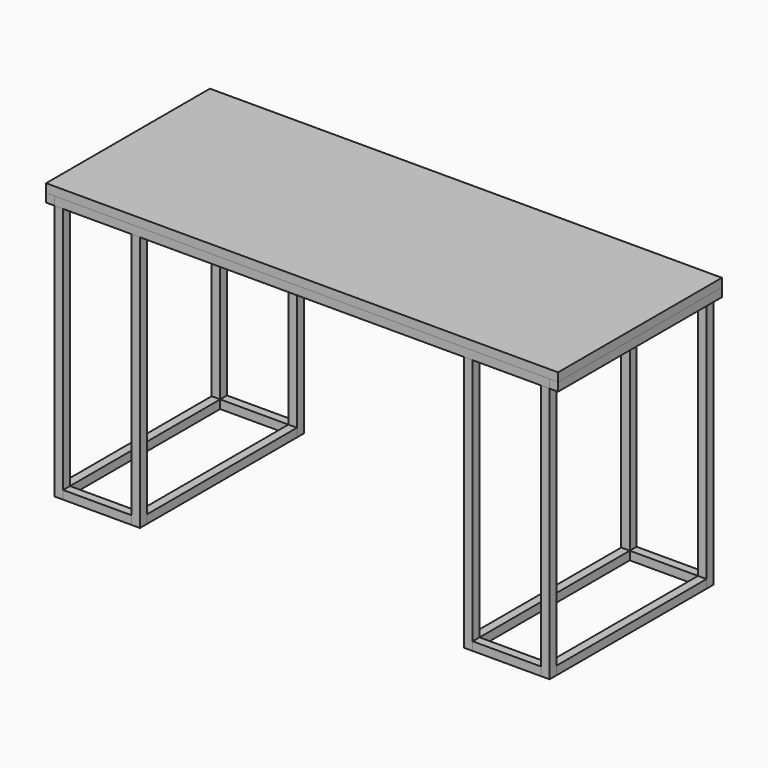
from build123d import *

# Parameters (mm, degrees)
F0_W     = 1524
F0_H     = 609.6
F1_DEPTH = 25.4
F2_W     = 1473.2
F2_H     = 25.4
F3_DEPTH = 25.4
F2_W_2   = 25.4
F2_H_2   = 558.8
F4_DEPTH = 25.4
F5_W     = 25.4
F5_H     = 25.4
F6_DEPTH = 762
F7_W     = 25.4
F7_H     = 558.8
F7_W_2   = 203.2
F7_H_2   = 25.4
F8_DEPTH = 25.4


with BuildPart() as f1:
    # F0 (on Top) → F1 (new body)
    with BuildSketch(Plane.XY):
        with Locations((-457.737868, -147.86572)):
            Rectangle(F0_W, F0_H)
    extrude(amount=F1_DEPTH)


with BuildPart() as f3:
    # F2 (on face) → F3 (new body)
    with BuildSketch(Plane(origin=(0, 0, 0), x_dir=(1, 0, 0), z_dir=(0, 0, -1))):
        with Locations((-457.737868, -144.23428)):
            Rectangle(F2_W, F2_H)
        with Locations((-457.737868, 439.96572)):
            Rectangle(F2_W, F2_H)
    extrude(amount=F3_DEPTH)


with BuildPart() as f4:
    # F2 (on face) → F4 (new body)
    with BuildSketch(Plane(origin=(0, 0, 0), x_dir=(1, 0, 0), z_dir=(0, 0, -1))):
        with Locations((-1207.037868, 147.86572)):
            Rectangle(F2_W_2, F2_H_2)
        with Locations((291.562132, 147.86572)):
            Rectangle(F2_W_2, F2_H_2)
        with Locations((-1207.037868, 439.96572)):
            Rectangle(F2_W_2, F2_H)
        with Locations((-1207.037868, -144.23428)):
            Rectangle(F2_W_2, F2_H)
        with Locations((291.562132, -144.23428)):
            Rectangle(F2_W_2, F2_H)
        with Locations((291.562132, 439.96572)):
            Rectangle(F2_W_2, F2_H)
    extrude(amount=F4_DEPTH)


with BuildPart() as f6:
    # F5 (on face) → F6 (new body)
    with BuildSketch(Plane(origin=(0, 0, -25.4), x_dir=(1, 0, 0), z_dir=(0, 0, -1))):
        with Locations((-1181.637868, 439.96572)):
            Rectangle(F5_W, F5_H)
        with Locations((-1181.637868, -144.23428)):
            Rectangle(F5_W, F5_H)
        with Locations((266.162132, 439.96572)):
            Rectangle(F5_W, F5_H)
        with Locations((266.162132, -144.23428)):
            Rectangle(F5_W, F5_H)
        with Locations((-953.037868, 439.96572)):
            Rectangle(F5_W, F5_H)
        with Locations((-953.037868, -144.23428)):
            Rectangle(F5_W, F5_H)
        with Locations((37.562132, 439.96572)):
            Rectangle(F5_W, F5_H)
        with Locations((37.562132, -144.23428)):
            Rectangle(F5_W, F5_H)
    extrude(amount=F6_DEPTH)


with BuildPart() as f8:
    # F7 (on face) → F8 (new body)
    with BuildSketch(Plane(origin=(0, 0, -787.4), x_dir=(1, 0, 0), z_dir=(0, 0, -1))):
        with Locations((-1181.637868, 147.86572)):
            Rectangle(F7_W, F7_H)
        with Locations((-1067.337868, 439.96572)):
            Rectangle(F7_W_2, F7_H_2)
        with Locations((-953.037868, 147.86572)):
            Rectangle(F7_W, F7_H)
        with Locations((-1067.337868, -144.23428)):
            Rectangle(F7_W_2, F7_H_2)
        with Locations((37.562132, 147.86572)):
            Rectangle(F7_W, F7_H)
        with Locations((151.862132, 439.96572)):
            Rectangle(F7_W_2, F7_H_2)
        with Locations((151.862132, -144.23428)):
            Rectangle(F7_W_2, F7_H_2)
        with Locations((266.162132, 147.86572)):
            Rectangle(F7_W, F7_H)
    extrude(amount=-F8_DEPTH)


solid = Compound([f1.part, f3.part, f4.part, f6.part, f8.part])
